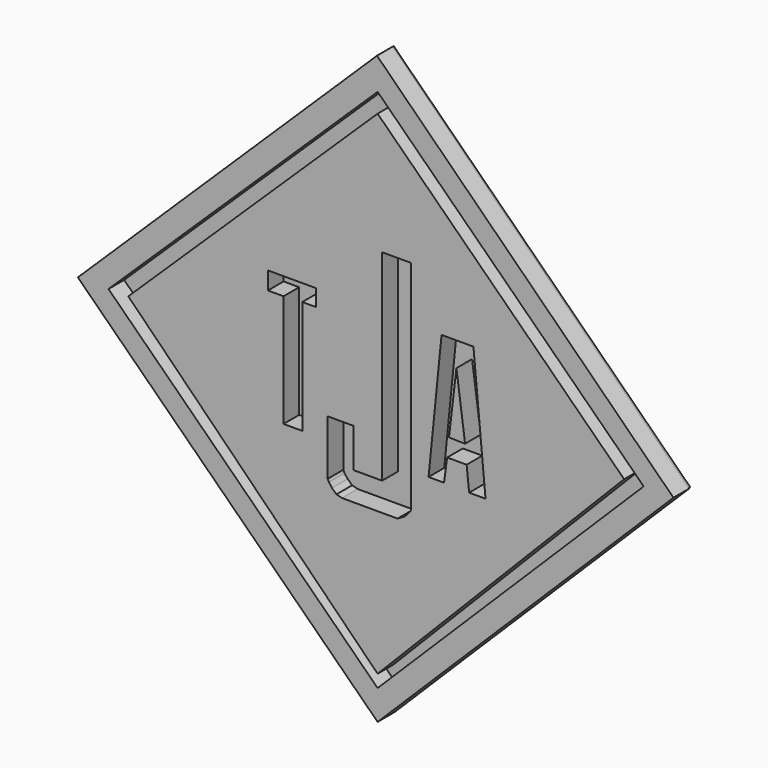
from build123d import *

# Parameters (mm, degrees)
F1_DEPTH = 0.254
F3_DEPTH = 2.54


with BuildPart() as f1:
    # F0 (on Front) → F1 (new body)
    with BuildSketch(Plane.XZ):
        Polygon((0.715847, 35.64702), (-37.974428, -2.056155), (0.969097, -40.250108), (39.17966, -2.204001), align=None)
    extrude(amount=-F1_DEPTH)

    # F2 (on Front) → F3 (join)
    with BuildSketch(Plane.XZ):
        Polygon((0.789772, 35.712212), (-38.017236, -2.229905), (0.871225, -40.3511), (39.247029, -2.263322), align=None)
        Polygon((0.871225, -36.486347), (-34.040608, -2.263322), (0.871225, 31.604601), (35.386718, -2.229905), align=None, mode=Mode.SUBTRACT)
        Polygon((0.871225, 29.116247), (-31.471439, -2.263322), (0.871225, -34.850565), (32.848282, -2.229905), align=None)
        Polygon((-13.359514, 4.293121), (-13.359514, 4.833221), (-13.359514, 6.58855), (-7.148348, 6.58855), (-7.148348, 4.428146), (-8.903676, 4.428146), (-8.903676, -10.289616), (-11.334131, -10.289616), (-11.334131, 4.293121), align=None, mode=Mode.SUBTRACT)
        Polygon((-5.617561, -14.702972), (-5.617561, -7.554365), (-2.239331, -7.554365), (-2.239331, -12.612418), (1.453849, -12.612418), (1.453849, 13.480708), (5.227317, 13.480708), (5.227317, -14.378722), (5.227317, -14.734582), (4.936552, -15.16423), (4.363688, -15.760964), (3.456654, -16.286088), (-3.751884, -16.286088), (-4.467965, -16.095133), (-5.040829, -15.570009), (-5.446608, -15.021014), align=None, mode=Mode.SUBTRACT)
        Polygon((9.48762, -10.229349), (7.480456, -10.229349), (9.166474, 6.550539), (13.301231, 6.550539), (14.866819, -10.309636), (12.739225, -10.309636), (12.418078, -7.218604), (9.889052, -7.218604), align=None, mode=Mode.SUBTRACT)
        Polygon((11.093351, 3.37922), (10.129912, -4.85015), (12.217362, -4.890294), align=None)
    extrude(amount=F3_DEPTH)


solid = f1.part
